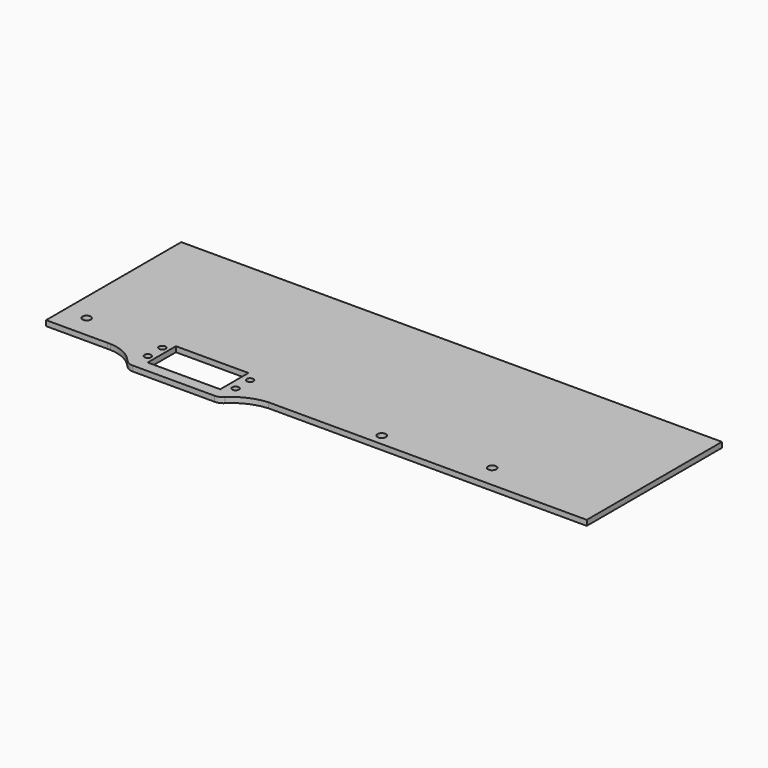
from build123d import *

# Parameters (mm, degrees)
F0_R     = 1.85
F0_R_2   = 2.35
F0_W     = 40.9
F0_H     = 19.9
F1_DEPTH = 3


with BuildPart() as f1:
    # F0 (on Top) → F1 (new body)
    with BuildSketch(Plane.XY):
        with BuildLine():
            Line((-152.4, 47.625), (-152.4, -47.625))
            Line((-152.4, -47.625), (-117.734805, -47.625))
            ThreePointArc((-117.734805, -47.625), (-116.932919, -47.610153), (-116.131032, -47.625))
            ThreePointArc((-116.131032, -47.625), (-107.434809, -49.803392), (-100.365224, -55.316166))
            ThreePointArc((-100.365224, -55.316166), (-98.186821, -56.982665), (-95.5088, -57.575))
            Line((-95.5088, -57.575), (-77.11, -57.575))
            Line((-77.11, -57.575), (-49.415637, -57.575))
            ThreePointArc((-49.415637, -57.575), (-46.989367, -57.093195), (-44.931282, -55.720894))
            ThreePointArc((-44.931282, -55.720894), (-36.753686, -50.062559), (-27.112724, -47.625))
            Line((-27.112724, -47.625), (152.4, -47.625))
            Line((152.4, -47.625), (152.4, 47.625))
            Line((152.4, 47.625), (-152.4, 47.625))
        make_face()
        with Locations((-96.02, -46.36)):
            Circle(F0_R, mode=Mode.SUBTRACT)
        with Locations((-139.7, -34.925)):
            Circle(F0_R_2, mode=Mode.SUBTRACT)
        with Locations((-96.02, -36.19)):
            Circle(F0_R, mode=Mode.SUBTRACT)
        with Locations((-46.55, -46.36)):
            Circle(F0_R, mode=Mode.SUBTRACT)
        with Locations((-71.8, -41.275)):
            Rectangle(F0_W, F0_H, mode=Mode.SUBTRACT)
        with Locations((-46.55, -36.19)):
            Circle(F0_R, mode=Mode.SUBTRACT)
        with Locations((31.75, -41.275)):
            Circle(F0_R_2, mode=Mode.SUBTRACT)
        with Locations((88.9, -34.925)):
            Circle(F0_R_2, mode=Mode.SUBTRACT)
    extrude(amount=F1_DEPTH)


solid = f1.part
